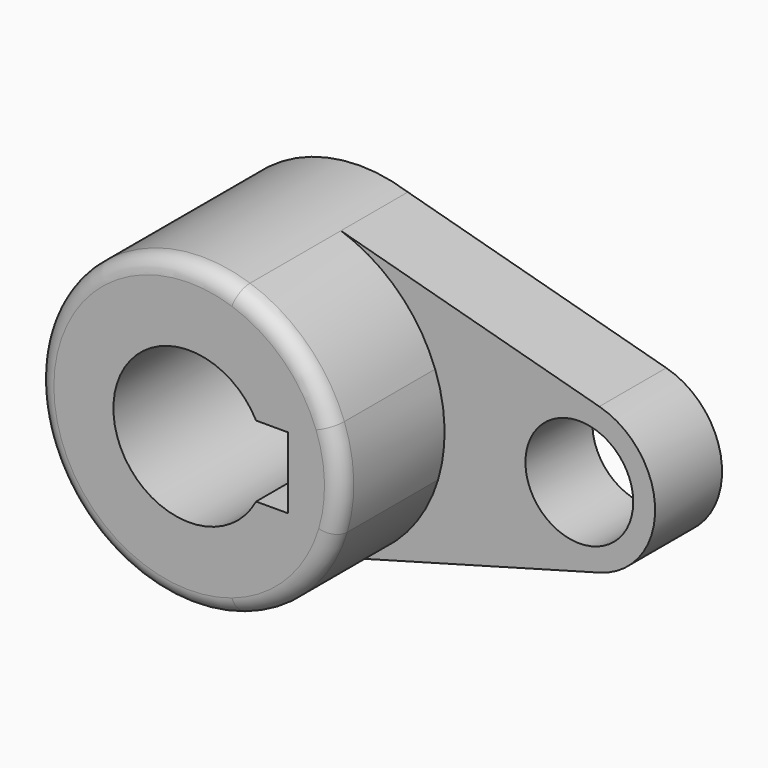
from build123d import *

# Parameters (mm, degrees)
F0_R     = 10.16
F1_DEPTH = 15.7734
F2_DEPTH = 40.2336
F3_R     = 3.066051


with BuildPart() as f1:
    # F0 (on Front) → F1 (new body)
    with BuildSketch(Plane.XZ):
        with BuildLine():
            ThreePointArc((-18.485138, 27.110208), (-7.646431, 20.535508), (-0.718441, 9.919144))
            ThreePointArc((-0.718441, 9.919144), (1.044836, 0.88042), (-0.158376, -8.249748))
            ThreePointArc((-0.158376, -8.249748), (-7.023149, -19.913542), (-18.485138, -27.110208))
            Line((-18.485138, -27.110208), (30.22916, -13.78093))
            ThreePointArc((30.22916, -13.78093), (40.745902, 0), (30.22916, 13.78093))
            Line((30.22916, 13.78093), (-18.485138, 27.110208))
        make_face()
        with Locations((26.458402, 0)):
            Circle(F0_R, mode=Mode.SUBTRACT)
    extrude(amount=F1_DEPTH)

    # F0 (on Front) → F2 (join)
    with BuildSketch(Plane.XZ):
        with BuildLine():
            ThreePointArc((-0.158376, -8.249748), (1.044836, 0.88042), (-0.718441, 9.919144))
            ThreePointArc((-0.718441, 9.919144), (-7.646431, 20.535508), (-18.485138, 27.110208))
            ThreePointArc((-18.485138, 27.110208), (-56.091598, 0), (-18.485138, -27.110208))
            ThreePointArc((-18.485138, -27.110208), (-7.023149, -19.913542), (-0.158376, -8.249748))
        make_face()
        with BuildLine():
            ThreePointArc((-14.907705, -6.719262), (-41.804098, 0), (-14.907705, 6.719262))
            Line((-14.907705, 6.719262), (-8.855358, 6.719262))
            Line((-8.855358, 6.719262), (-8.855358, -6.719262))
            Line((-8.855358, -6.719262), (-14.907705, -6.719262))
        make_face(mode=Mode.SUBTRACT)
    extrude(amount=F2_DEPTH)

    # F3
    f3_edges = [f1.edges().sort_by_distance(p)[0] for p in [
        (-36.548058, -40.2336, 27.110208),
    ]]
    fillet(f3_edges, radius=F3_R)


solid = f1.part
